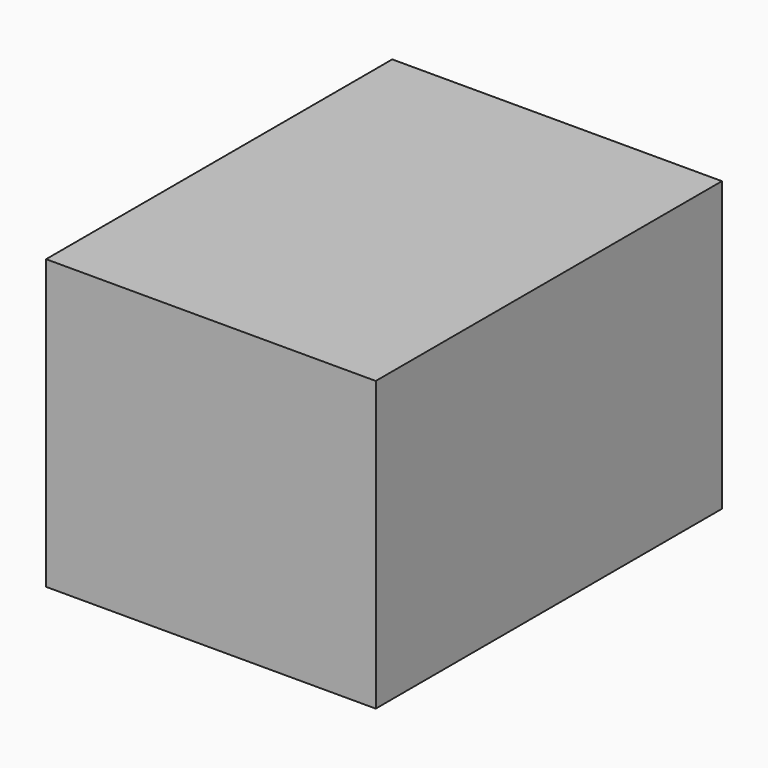
from build123d import *

# Parameters (mm, degrees)
F0_W     = 16
F0_H     = 21
F1_DEPTH = 14
F3_DEPTH = 11


with BuildPart() as f1:
    # F0 (on Top) → F1 (new body)
    with BuildSketch(Plane.XY):
        Rectangle(F0_W, F0_H)
    extrude(amount=F1_DEPTH)

    # F2 (on Front) → F3 (cut)
    with BuildSketch(Plane.XZ):
        Polygon((-2, 2), (-2, 1), (2, 1), (2, 2), (3, 2), (3, 4), (6, 4), (6, 11), (-6, 11), (-6, 4), (-3, 4), (-3, 2), align=None)
    extrude(amount=-F3_DEPTH, mode=Mode.SUBTRACT)


solid = f1.part
